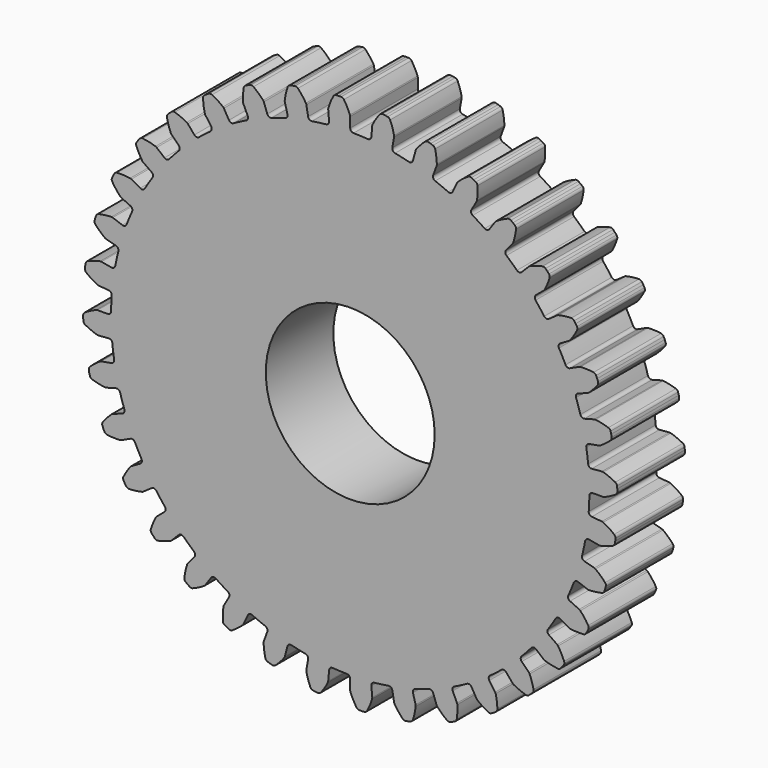
from build123d import *

# Parameters (mm, degrees)
F0_R     = 6.35
F1_DEPTH = 6.35


with BuildPart() as f1:
    # F0 (on Front) → F1 (new body)
    with BuildSketch(Plane.XZ):
        with BuildLine():
            ThreePointArc((-1.589323, 18.16604), (-1.646648, 17.981993), (-1.816696, 17.891202))
            ThreePointArc((-1.816696, 17.891202), (-2.347279, 17.829351), (-2.87579, 17.751769))
            ThreePointArc((-2.87579, 17.751769), (-3.063542, 17.795456), (-3.166549, 17.958394))
            Line((-3.166549, 17.958394), (-3.299689, 18.713467))
            ThreePointArc((-3.299689, 18.713467), (-3.312413, 18.759632), (-3.333576, 18.80259))
            ThreePointArc((-3.333576, 18.80259), (-3.613415, 19.208209), (-3.933669, 19.58274))
            ThreePointArc((-3.933669, 19.58274), (-4.038372, 19.649125), (-4.162025, 19.658043))
            Line((-4.162025, 19.658043), (-4.350707, 19.624773))
            Line((-4.350707, 19.624773), (-4.535773, 19.575185))
            ThreePointArc((-4.535773, 19.575185), (-4.644071, 19.514844), (-4.710909, 19.41043))
            ThreePointArc((-4.710909, 19.41043), (-4.842874, 18.935644), (-4.925072, 18.449764))
            ThreePointArc((-4.925072, 18.449764), (-4.926097, 18.401887), (-4.918119, 18.354669))
            Line((-4.918119, 18.354669), (-4.719677, 17.614074))
            ThreePointArc((-4.719677, 17.614074), (-4.744172, 17.422869), (-4.895871, 17.303928))
            ThreePointArc((-4.895871, 17.303928), (-5.407653, 17.150883), (-5.914662, 16.982704))
            ThreePointArc((-5.914662, 16.982704), (-6.107148, 16.993124), (-6.236885, 17.1357))
            Line((-6.236885, 17.1357), (-6.499119, 17.856182))
            ThreePointArc((-6.499119, 17.856182), (-6.519666, 17.899437), (-6.547967, 17.938067))
            ThreePointArc((-6.547967, 17.938067), (-6.893989, 18.28893), (-7.274415, 18.60216))
            ThreePointArc((-7.274415, 18.60216), (-7.389054, 18.649354), (-7.512377, 18.636665))
            Line((-7.512377, 18.636665), (-7.692417, 18.571136))
            Line((-7.692417, 18.571136), (-7.866059, 18.490165))
            ThreePointArc((-7.866059, 18.490165), (-7.962235, 18.411935), (-8.009925, 18.297501))
            ThreePointArc((-8.009925, 18.297501), (-8.05744, 17.807013), (-8.054017, 17.314241))
            ThreePointArc((-8.054017, 17.314241), (-8.046713, 17.266913), (-8.030656, 17.221798))
            Line((-8.030656, 17.221798), (-7.706626, 16.526913))
            ThreePointArc((-7.706626, 16.526913), (-7.697547, 16.334359), (-7.826288, 16.190883))
            ThreePointArc((-7.826288, 16.190883), (-8.303718, 15.951293), (-8.773821, 15.697629))
            ThreePointArc((-8.773821, 15.697629), (-8.965192, 15.674465), (-9.117716, 15.792347))
            Line((-9.117716, 15.792347), (-9.501076, 16.456346))
            ThreePointArc((-9.501076, 16.456346), (-9.528822, 16.495376), (-9.563401, 16.528505))
            ThreePointArc((-9.563401, 16.528505), (-9.965093, 16.813951), (-10.394131, 17.056362))
            ThreePointArc((-10.394131, 17.056362), (-10.515224, 17.082933), (-10.63447, 17.049022))
            Line((-10.63447, 17.049022), (-10.800395, 16.953225))
            Line((-10.800395, 16.953225), (-10.95734, 16.843331))
            ThreePointArc((-10.95734, 16.843331), (-11.038469, 16.749589), (-11.065564, 16.628612))
            ThreePointArc((-11.065564, 16.628612), (-11.027185, 16.137325), (-10.938244, 15.652633))
            ThreePointArc((-10.938244, 15.652633), (-10.922834, 15.607293), (-10.899187, 15.565652))
            Line((-10.899187, 15.565652), (-10.459414, 14.937591))
            ThreePointArc((-10.459414, 14.937591), (-10.417036, 14.749539), (-10.518906, 14.585887))
            ThreePointArc((-10.518906, 14.585887), (-10.947479, 14.267032), (-11.366392, 13.935588))
            ThreePointArc((-11.366392, 13.935588), (-11.550833, 13.879546), (-11.721509, 13.969151))
            Line((-11.721509, 13.969151), (-12.214348, 14.556493))
            ThreePointArc((-12.214348, 14.556493), (-12.24845, 14.590112), (-12.288257, 14.616732))
            ThreePointArc((-12.288257, 14.616732), (-12.733413, 14.828089), (-13.198027, 14.992316))
            ThreePointArc((-13.198027, 14.992316), (-13.321895, 14.997455), (-13.433441, 14.943352))
            Line((-13.433441, 14.943352), (-13.58021, 14.820198))
            Line((-13.58021, 14.820198), (-13.715687, 14.684721))
            ThreePointArc((-13.715687, 14.684721), (-13.779306, 14.578315), (-13.784982, 14.454471))
            ThreePointArc((-13.784982, 14.454471), (-13.661874, 13.977312), (-13.490119, 13.515428))
            ThreePointArc((-13.490119, 13.515428), (-13.467069, 13.473453), (-13.43655, 13.43655))
            Line((-13.43655, 13.43655), (-12.894397, 12.894397))
            ThreePointArc((-12.894397, 12.894397), (-12.820008, 12.716561), (-12.891913, 12.537706))
            ThreePointArc((-12.891913, 12.537706), (-13.258606, 12.149274), (-13.6136, 11.750122))
            ThreePointArc((-13.6136, 11.750122), (-13.785508, 11.662903), (-13.969151, 11.721509))
            Line((-13.969151, 11.721509), (-14.556493, 12.214348))
            ThreePointArc((-14.556493, 12.214348), (-14.595915, 12.241534), (-14.639739, 12.260838))
            ThreePointArc((-14.639739, 12.260838), (-15.114835, 12.391683), (-15.600908, 12.472735))
            ThreePointArc((-15.600908, 12.472735), (-15.723786, 12.456288), (-15.824242, 12.383637))
            Line((-15.824242, 12.383637), (-15.947396, 12.236868))
            Line((-15.947396, 12.236868), (-16.05729, 12.079923))
            ThreePointArc((-16.05729, 12.079923), (-16.101465, 11.964086), (-16.085549, 11.841138))
            ThreePointArc((-16.085549, 11.841138), (-15.881454, 11.392606), (-15.632103, 10.967564))
            ThreePointArc((-15.632103, 10.967564), (-15.602115, 10.930229), (-15.565652, 10.899187))
            Line((-15.565652, 10.899187), (-14.937591, 10.459414))
            ThreePointArc((-14.937591, 10.459414), (-14.833451, 10.297197), (-14.873206, 10.108573))
            ThreePointArc((-14.873206, 10.108573), (-15.166877, 9.662366), (-15.447166, 9.207635))
            ThreePointArc((-15.447166, 9.207635), (-15.601317, 9.091889), (-15.792347, 9.117716))
            Line((-15.792347, 9.117716), (-16.456346, 9.501076))
            ThreePointArc((-16.456346, 9.501076), (-16.49989, 9.521004), (-16.546401, 9.532404))
            ThreePointArc((-16.546401, 9.532404), (-17.037, 9.578762), (-17.529763, 9.574177))
            ThreePointArc((-17.529763, 9.574177), (-17.647918, 9.536642), (-17.734232, 9.447651))
            Line((-17.734232, 9.447651), (-17.830029, 9.281726))
            Line((-17.830029, 9.281726), (-17.911, 9.108083))
            ThreePointArc((-17.911, 9.108083), (-17.934389, 8.986335), (-17.897366, 8.868018))
            ThreePointArc((-17.897366, 8.868018), (-17.618484, 8.461741), (-17.299114, 8.086456))
            ThreePointArc((-17.299114, 8.086456), (-17.263098, 8.054896), (-17.221798, 8.030656))
            Line((-17.221798, 8.030656), (-16.526913, 7.706626))
            ThreePointArc((-16.526913, 7.706626), (-16.396187, 7.564957), (-16.402583, 7.372296))
            ThreePointArc((-16.402583, 7.372296), (-16.61431, 6.881873), (-16.811378, 6.385378))
            ThreePointArc((-16.811378, 6.385378), (-16.943088, 6.244623), (-17.1357, 6.236885))
            Line((-17.1357, 6.236885), (-17.856182, 6.499119))
            ThreePointArc((-17.856182, 6.499119), (-17.902525, 6.511182), (-17.950308, 6.514333))
            ThreePointArc((-17.950308, 6.514333), (-18.441504, 6.474796), (-18.925984, 6.384713))
            ThreePointArc((-18.925984, 6.384713), (-19.035827, 6.32723), (-19.105377, 6.224603))
            Line((-19.105377, 6.224603), (-19.170906, 6.044563))
            Line((-19.170906, 6.044563), (-19.220494, 5.859498))
            ThreePointArc((-19.220494, 5.859498), (-19.222386, 5.735538), (-19.16538, 5.625448))
            ThreePointArc((-19.16538, 5.625448), (-18.820186, 5.27377), (-18.4405, 4.959645))
            ThreePointArc((-18.4405, 4.959645), (-18.399551, 4.934818), (-18.354669, 4.918119))
            Line((-18.354669, 4.918119), (-17.614074, 4.719677))
            ThreePointArc((-17.614074, 4.719677), (-17.460733, 4.60286), (-17.433577, 4.412015))
            ThreePointArc((-17.433577, 4.412015), (-17.556926, 3.892277), (-17.664785, 3.369104))
            ThreePointArc((-17.664785, 3.369104), (-17.770051, 3.207616), (-17.958394, 3.166549))
            Line((-17.958394, 3.166549), (-18.713467, 3.299689))
            ThreePointArc((-18.713467, 3.299689), (-18.7612, 3.303522), (-18.808805, 3.298327))
            ThreePointArc((-18.808805, 3.298327), (-19.285673, 3.174095), (-19.74715, 3.001252))
            ThreePointArc((-19.74715, 3.001252), (-19.845342, 2.925568), (-19.896014, 2.812423))
            Line((-19.896014, 2.812423), (-19.929284, 2.62374))
            Line((-19.929284, 2.62374), (-19.945983, 2.432875))
            ThreePointArc((-19.945983, 2.432875), (-19.926321, 2.31047), (-19.851063, 2.211952))
            ThreePointArc((-19.851063, 2.211952), (-19.450045, 1.925559), (-19.02158, 1.682137))
            ThreePointArc((-19.02158, 1.682137), (-18.976942, 1.664799), (-18.929843, 1.656147))
            Line((-18.929843, 1.656147), (-18.16604, 1.589323))
            ThreePointArc((-18.16604, 1.589323), (-17.994744, 1.500908), (-17.93486, 1.317678))
            ThreePointArc((-17.93486, 1.317678), (-17.966084, 0.784416), (-17.981456, 0.250462))
            ThreePointArc((-17.981456, 0.250462), (-18.057081, 0.073148), (-18.235431, 0))
            Line((-18.235431, 0), (-19.002152, 0))
            ThreePointArc((-19.002152, 0), (-19.049826, -0.004514), (-19.095806, -0.017896))
            ThreePointArc((-19.095806, -0.017896), (-19.543856, -0.223048), (-19.968308, -0.4734))
            ThreePointArc((-19.968308, -0.4734), (-20.051866, -0.564985), (-20.082121, -0.685211))
            Line((-20.082121, -0.685211), (-20.082121, -0.876804))
            Line((-20.082121, -0.876804), (-20.065423, -1.067669))
            ThreePointArc((-20.065423, -1.067669), (-20.024804, -1.1848), (-19.933582, -1.268754))
            ThreePointArc((-19.933582, -1.268754), (-19.488925, -1.48116), (-19.0247, -1.646481))
            ThreePointArc((-19.0247, -1.646481), (-18.977729, -1.655805), (-18.929843, -1.656147))
            Line((-18.929843, -1.656147), (-18.16604, -1.589323))
            ThreePointArc((-18.16604, -1.589323), (-17.981993, -1.646648), (-17.891202, -1.816696))
            ThreePointArc((-17.891202, -1.816696), (-17.829351, -2.347279), (-17.751769, -2.87579))
            ThreePointArc((-17.751769, -2.87579), (-17.795456, -3.063542), (-17.958394, -3.166549))
            Line((-17.958394, -3.166549), (-18.713467, -3.299689))
            ThreePointArc((-18.713467, -3.299689), (-18.759632, -3.312413), (-18.80259, -3.333576))
            ThreePointArc((-18.80259, -3.333576), (-19.208209, -3.613415), (-19.58274, -3.933669))
            ThreePointArc((-19.58274, -3.933669), (-19.649125, -4.038372), (-19.658043, -4.162025))
            Line((-19.658043, -4.162025), (-19.624773, -4.350707))
            Line((-19.624773, -4.350707), (-19.575185, -4.535773))
            ThreePointArc((-19.575185, -4.535773), (-19.514844, -4.644071), (-19.41043, -4.710909))
            ThreePointArc((-19.41043, -4.710909), (-18.935644, -4.842874), (-18.449764, -4.925072))
            ThreePointArc((-18.449764, -4.925072), (-18.401887, -4.926097), (-18.354669, -4.918119))
            Line((-18.354669, -4.918119), (-17.614074, -4.719677))
            ThreePointArc((-17.614074, -4.719677), (-17.422869, -4.744172), (-17.303928, -4.895871))
            ThreePointArc((-17.303928, -4.895871), (-17.150883, -5.407653), (-16.982704, -5.914662))
            ThreePointArc((-16.982704, -5.914662), (-16.993124, -6.107148), (-17.1357, -6.236885))
            Line((-17.1357, -6.236885), (-17.856182, -6.499119))
            ThreePointArc((-17.856182, -6.499119), (-17.899437, -6.519666), (-17.938067, -6.547967))
            ThreePointArc((-17.938067, -6.547967), (-18.28893, -6.893989), (-18.60216, -7.274415))
            ThreePointArc((-18.60216, -7.274415), (-18.649354, -7.389054), (-18.636665, -7.512377))
            Line((-18.636665, -7.512377), (-18.571136, -7.692417))
            Line((-18.571136, -7.692417), (-18.490165, -7.866059))
            ThreePointArc((-18.490165, -7.866059), (-18.411935, -7.962235), (-18.297501, -8.009925))
            ThreePointArc((-18.297501, -8.009925), (-17.807013, -8.05744), (-17.314241, -8.054017))
            ThreePointArc((-17.314241, -8.054017), (-17.266913, -8.046713), (-17.221798, -8.030656))
            Line((-17.221798, -8.030656), (-16.526913, -7.706626))
            ThreePointArc((-16.526913, -7.706626), (-16.334359, -7.697547), (-16.190883, -7.826288))
            ThreePointArc((-16.190883, -7.826288), (-15.951293, -8.303718), (-15.697629, -8.773821))
            ThreePointArc((-15.697629, -8.773821), (-15.674465, -8.965192), (-15.792347, -9.117716))
            Line((-15.792347, -9.117716), (-16.456346, -9.501076))
            ThreePointArc((-16.456346, -9.501076), (-16.495376, -9.528822), (-16.528505, -9.563401))
            ThreePointArc((-16.528505, -9.563401), (-16.813951, -9.965093), (-17.056362, -10.394131))
            ThreePointArc((-17.056362, -10.394131), (-17.082933, -10.515224), (-17.049022, -10.63447))
            Line((-17.049022, -10.63447), (-16.953225, -10.800395))
            Line((-16.953225, -10.800395), (-16.843331, -10.95734))
            ThreePointArc((-16.843331, -10.95734), (-16.749589, -11.038469), (-16.628612, -11.065564))
            ThreePointArc((-16.628612, -11.065564), (-16.137325, -11.027185), (-15.652633, -10.938244))
            ThreePointArc((-15.652633, -10.938244), (-15.607293, -10.922834), (-15.565652, -10.899187))
            Line((-15.565652, -10.899187), (-14.937591, -10.459414))
            ThreePointArc((-14.937591, -10.459414), (-14.749539, -10.417036), (-14.585887, -10.518906))
            ThreePointArc((-14.585887, -10.518906), (-14.267032, -10.947479), (-13.935588, -11.366392))
            ThreePointArc((-13.935588, -11.366392), (-13.879546, -11.550833), (-13.969151, -11.721509))
            Line((-13.969151, -11.721509), (-14.556493, -12.214348))
            ThreePointArc((-14.556493, -12.214348), (-14.590112, -12.24845), (-14.616732, -12.288257))
            ThreePointArc((-14.616732, -12.288257), (-14.828089, -12.733413), (-14.992316, -13.198027))
            ThreePointArc((-14.992316, -13.198027), (-14.997455, -13.321895), (-14.943352, -13.433441))
            Line((-14.943352, -13.433441), (-14.820198, -13.58021))
            Line((-14.820198, -13.58021), (-14.684721, -13.715687))
            ThreePointArc((-14.684721, -13.715687), (-14.578315, -13.779306), (-14.454471, -13.784982))
            ThreePointArc((-14.454471, -13.784982), (-13.977312, -13.661874), (-13.515428, -13.490119))
            ThreePointArc((-13.515428, -13.490119), (-13.473453, -13.467069), (-13.43655, -13.43655))
            Line((-13.43655, -13.43655), (-12.894397, -12.894397))
            ThreePointArc((-12.894397, -12.894397), (-12.716561, -12.820008), (-12.537706, -12.891913))
            ThreePointArc((-12.537706, -12.891913), (-12.149274, -13.258606), (-11.750122, -13.6136))
            ThreePointArc((-11.750122, -13.6136), (-11.662903, -13.785508), (-11.721509, -13.969151))
            Line((-11.721509, -13.969151), (-12.214348, -14.556493))
            ThreePointArc((-12.214348, -14.556493), (-12.241534, -14.595915), (-12.260838, -14.639739))
            ThreePointArc((-12.260838, -14.639739), (-12.391683, -15.114835), (-12.472735, -15.600908))
            ThreePointArc((-12.472735, -15.600908), (-12.456288, -15.723786), (-12.383637, -15.824242))
            Line((-12.383637, -15.824242), (-12.236868, -15.947396))
            Line((-12.236868, -15.947396), (-12.079923, -16.05729))
            ThreePointArc((-12.079923, -16.05729), (-11.964086, -16.101465), (-11.841138, -16.085549))
            ThreePointArc((-11.841138, -16.085549), (-11.392606, -15.881454), (-10.967564, -15.632103))
            ThreePointArc((-10.967564, -15.632103), (-10.930229, -15.602115), (-10.899187, -15.565652))
            Line((-10.899187, -15.565652), (-10.459414, -14.937591))
            ThreePointArc((-10.459414, -14.937591), (-10.297197, -14.833451), (-10.108573, -14.873206))
            ThreePointArc((-10.108573, -14.873206), (-9.662366, -15.166877), (-9.207635, -15.447166))
            ThreePointArc((-9.207635, -15.447166), (-9.091889, -15.601317), (-9.117716, -15.792347))
            Line((-9.117716, -15.792347), (-9.501076, -16.456346))
            ThreePointArc((-9.501076, -16.456346), (-9.521004, -16.49989), (-9.532404, -16.546401))
            ThreePointArc((-9.532404, -16.546401), (-9.578762, -17.037), (-9.574177, -17.529763))
            ThreePointArc((-9.574177, -17.529763), (-9.536642, -17.647918), (-9.447651, -17.734232))
            Line((-9.447651, -17.734232), (-9.281726, -17.830029))
            Line((-9.281726, -17.830029), (-9.108083, -17.911))
            ThreePointArc((-9.108083, -17.911), (-8.986335, -17.934389), (-8.868018, -17.897366))
            ThreePointArc((-8.868018, -17.897366), (-8.461741, -17.618484), (-8.086456, -17.299114))
            ThreePointArc((-8.086456, -17.299114), (-8.054896, -17.263098), (-8.030656, -17.221798))
            Line((-8.030656, -17.221798), (-7.706626, -16.526913))
            ThreePointArc((-7.706626, -16.526913), (-7.564957, -16.396187), (-7.372296, -16.402583))
            ThreePointArc((-7.372296, -16.402583), (-6.881873, -16.61431), (-6.385378, -16.811378))
            ThreePointArc((-6.385378, -16.811378), (-6.244623, -16.943088), (-6.236885, -17.1357))
            Line((-6.236885, -17.1357), (-6.499119, -17.856182))
            ThreePointArc((-6.499119, -17.856182), (-6.511182, -17.902525), (-6.514333, -17.950308))
            ThreePointArc((-6.514333, -17.950308), (-6.474796, -18.441504), (-6.384713, -18.925984))
            ThreePointArc((-6.384713, -18.925984), (-6.32723, -19.035827), (-6.224603, -19.105377))
            Line((-6.224603, -19.105377), (-6.044563, -19.170906))
            Line((-6.044563, -19.170906), (-5.859498, -19.220494))
            ThreePointArc((-5.859498, -19.220494), (-5.735538, -19.222386), (-5.625448, -19.16538))
            ThreePointArc((-5.625448, -19.16538), (-5.27377, -18.820186), (-4.959645, -18.4405))
            ThreePointArc((-4.959645, -18.4405), (-4.934818, -18.399551), (-4.918119, -18.354669))
            Line((-4.918119, -18.354669), (-4.719677, -17.614074))
            ThreePointArc((-4.719677, -17.614074), (-4.60286, -17.460733), (-4.412015, -17.433577))
            ThreePointArc((-4.412015, -17.433577), (-3.892277, -17.556926), (-3.369104, -17.664785))
            ThreePointArc((-3.369104, -17.664785), (-3.207616, -17.770051), (-3.166549, -17.958394))
            Line((-3.166549, -17.958394), (-3.299689, -18.713467))
            ThreePointArc((-3.299689, -18.713467), (-3.303522, -18.7612), (-3.298327, -18.808805))
            ThreePointArc((-3.298327, -18.808805), (-3.174095, -19.285673), (-3.001252, -19.74715))
            ThreePointArc((-3.001252, -19.74715), (-2.925568, -19.845342), (-2.812423, -19.896014))
            Line((-2.812423, -19.896014), (-2.62374, -19.929284))
            Line((-2.62374, -19.929284), (-2.432875, -19.945983))
            ThreePointArc((-2.432875, -19.945983), (-2.31047, -19.926321), (-2.211952, -19.851063))
            ThreePointArc((-2.211952, -19.851063), (-1.925559, -19.450045), (-1.682137, -19.02158))
            ThreePointArc((-1.682137, -19.02158), (-1.664799, -18.976942), (-1.656147, -18.929843))
            Line((-1.656147, -18.929843), (-1.589323, -18.16604))
            ThreePointArc((-1.589323, -18.16604), (-1.500908, -17.994744), (-1.317678, -17.93486))
            ThreePointArc((-1.317678, -17.93486), (-0.784416, -17.966084), (-0.250462, -17.981456))
            ThreePointArc((-0.250462, -17.981456), (-0.073148, -18.057081), (0, -18.235431))
            Line((0, -18.235431), (0, -19.002152))
            ThreePointArc((0, -19.002152), (0.004514, -19.049826), (0.017896, -19.095806))
            ThreePointArc((0.017896, -19.095806), (0.223048, -19.543856), (0.4734, -19.968308))
            ThreePointArc((0.4734, -19.968308), (0.564985, -20.051866), (0.685211, -20.082121))
            Line((0.685211, -20.082121), (0.876804, -20.082121))
            Line((0.876804, -20.082121), (1.067669, -20.065423))
            ThreePointArc((1.067669, -20.065423), (1.1848, -20.024804), (1.268754, -19.933582))
            ThreePointArc((1.268754, -19.933582), (1.48116, -19.488925), (1.646481, -19.0247))
            ThreePointArc((1.646481, -19.0247), (1.655805, -18.977729), (1.656147, -18.929843))
            Line((1.656147, -18.929843), (1.589323, -18.16604))
            ThreePointArc((1.589323, -18.16604), (1.646648, -17.981993), (1.816696, -17.891202))
            ThreePointArc((1.816696, -17.891202), (2.347279, -17.829351), (2.87579, -17.751769))
            ThreePointArc((2.87579, -17.751769), (3.063542, -17.795456), (3.166549, -17.958394))
            Line((3.166549, -17.958394), (3.299689, -18.713467))
            ThreePointArc((3.299689, -18.713467), (3.312413, -18.759632), (3.333576, -18.80259))
            ThreePointArc((3.333576, -18.80259), (3.613415, -19.208209), (3.933669, -19.58274))
            ThreePointArc((3.933669, -19.58274), (4.038372, -19.649125), (4.162025, -19.658043))
            Line((4.162025, -19.658043), (4.350707, -19.624773))
            Line((4.350707, -19.624773), (4.535773, -19.575185))
            ThreePointArc((4.535773, -19.575185), (4.644071, -19.514844), (4.710909, -19.41043))
            ThreePointArc((4.710909, -19.41043), (4.842874, -18.935644), (4.925072, -18.449764))
            ThreePointArc((4.925072, -18.449764), (4.926097, -18.401887), (4.918119, -18.354669))
            Line((4.918119, -18.354669), (4.719677, -17.614074))
            ThreePointArc((4.719677, -17.614074), (4.744172, -17.422869), (4.895871, -17.303928))
            ThreePointArc((4.895871, -17.303928), (5.407653, -17.150883), (5.914662, -16.982704))
            ThreePointArc((5.914662, -16.982704), (6.107148, -16.993124), (6.236885, -17.1357))
            Line((6.236885, -17.1357), (6.499119, -17.856182))
            ThreePointArc((6.499119, -17.856182), (6.519666, -17.899437), (6.547967, -17.938067))
            ThreePointArc((6.547967, -17.938067), (6.893989, -18.28893), (7.274415, -18.60216))
            ThreePointArc((7.274415, -18.60216), (7.389054, -18.649354), (7.512377, -18.636665))
            Line((7.512377, -18.636665), (7.692417, -18.571136))
            Line((7.692417, -18.571136), (7.866059, -18.490165))
            ThreePointArc((7.866059, -18.490165), (7.962235, -18.411935), (8.009925, -18.297501))
            ThreePointArc((8.009925, -18.297501), (8.05744, -17.807013), (8.054017, -17.314241))
            ThreePointArc((8.054017, -17.314241), (8.046713, -17.266913), (8.030656, -17.221798))
            Line((8.030656, -17.221798), (7.706626, -16.526913))
            ThreePointArc((7.706626, -16.526913), (7.697547, -16.334359), (7.826288, -16.190883))
            ThreePointArc((7.826288, -16.190883), (8.303718, -15.951293), (8.773821, -15.697629))
            ThreePointArc((8.773821, -15.697629), (8.965192, -15.674465), (9.117716, -15.792347))
            Line((9.117716, -15.792347), (9.501076, -16.456346))
            ThreePointArc((9.501076, -16.456346), (9.528822, -16.495376), (9.563401, -16.528505))
            ThreePointArc((9.563401, -16.528505), (9.965093, -16.813951), (10.394131, -17.056362))
            ThreePointArc((10.394131, -17.056362), (10.515224, -17.082933), (10.63447, -17.049022))
            Line((10.63447, -17.049022), (10.800395, -16.953225))
            Line((10.800395, -16.953225), (10.95734, -16.843331))
            ThreePointArc((10.95734, -16.843331), (11.038469, -16.749589), (11.065564, -16.628612))
            ThreePointArc((11.065564, -16.628612), (11.027185, -16.137325), (10.938244, -15.652633))
            ThreePointArc((10.938244, -15.652633), (10.922834, -15.607293), (10.899187, -15.565652))
            Line((10.899187, -15.565652), (10.459414, -14.937591))
            ThreePointArc((10.459414, -14.937591), (10.417036, -14.749539), (10.518906, -14.585887))
            ThreePointArc((10.518906, -14.585887), (10.947479, -14.267032), (11.366392, -13.935588))
            ThreePointArc((11.366392, -13.935588), (11.550833, -13.879546), (11.721509, -13.969151))
            Line((11.721509, -13.969151), (12.214348, -14.556493))
            ThreePointArc((12.214348, -14.556493), (12.24845, -14.590112), (12.288257, -14.616732))
            ThreePointArc((12.288257, -14.616732), (12.733413, -14.828089), (13.198027, -14.992316))
            ThreePointArc((13.198027, -14.992316), (13.321895, -14.997455), (13.433441, -14.943352))
            Line((13.433441, -14.943352), (13.58021, -14.820198))
            Line((13.58021, -14.820198), (13.715687, -14.684721))
            ThreePointArc((13.715687, -14.684721), (13.779306, -14.578315), (13.784982, -14.454471))
            ThreePointArc((13.784982, -14.454471), (13.661874, -13.977312), (13.490119, -13.515428))
            ThreePointArc((13.490119, -13.515428), (13.467069, -13.473453), (13.43655, -13.43655))
            Line((13.43655, -13.43655), (12.894397, -12.894397))
            ThreePointArc((12.894397, -12.894397), (12.820008, -12.716561), (12.891913, -12.537706))
            ThreePointArc((12.891913, -12.537706), (13.258606, -12.149274), (13.6136, -11.750122))
            ThreePointArc((13.6136, -11.750122), (13.785508, -11.662903), (13.969151, -11.721509))
            Line((13.969151, -11.721509), (14.556493, -12.214348))
            ThreePointArc((14.556493, -12.214348), (14.595915, -12.241534), (14.639739, -12.260838))
            ThreePointArc((14.639739, -12.260838), (15.114835, -12.391683), (15.600908, -12.472735))
            ThreePointArc((15.600908, -12.472735), (15.723786, -12.456288), (15.824242, -12.383637))
            Line((15.824242, -12.383637), (15.947396, -12.236868))
            Line((15.947396, -12.236868), (16.05729, -12.079923))
            ThreePointArc((16.05729, -12.079923), (16.101465, -11.964086), (16.085549, -11.841138))
            ThreePointArc((16.085549, -11.841138), (15.881454, -11.392606), (15.632103, -10.967564))
            ThreePointArc((15.632103, -10.967564), (15.602115, -10.930229), (15.565652, -10.899187))
            Line((15.565652, -10.899187), (14.937591, -10.459414))
            ThreePointArc((14.937591, -10.459414), (14.833451, -10.297197), (14.873206, -10.108573))
            ThreePointArc((14.873206, -10.108573), (15.166877, -9.662366), (15.447166, -9.207635))
            ThreePointArc((15.447166, -9.207635), (15.601317, -9.091889), (15.792347, -9.117716))
            Line((15.792347, -9.117716), (16.456346, -9.501076))
            ThreePointArc((16.456346, -9.501076), (16.49989, -9.521004), (16.546401, -9.532404))
            ThreePointArc((16.546401, -9.532404), (17.037, -9.578762), (17.529763, -9.574177))
            ThreePointArc((17.529763, -9.574177), (17.647918, -9.536642), (17.734232, -9.447651))
            Line((17.734232, -9.447651), (17.830029, -9.281726))
            Line((17.830029, -9.281726), (17.911, -9.108083))
            ThreePointArc((17.911, -9.108083), (17.934389, -8.986335), (17.897366, -8.868018))
            ThreePointArc((17.897366, -8.868018), (17.618484, -8.461741), (17.299114, -8.086456))
            ThreePointArc((17.299114, -8.086456), (17.263098, -8.054896), (17.221798, -8.030656))
            Line((17.221798, -8.030656), (16.526913, -7.706626))
            ThreePointArc((16.526913, -7.706626), (16.396187, -7.564957), (16.402583, -7.372296))
            ThreePointArc((16.402583, -7.372296), (16.61431, -6.881873), (16.811378, -6.385378))
            ThreePointArc((16.811378, -6.385378), (16.943088, -6.244623), (17.1357, -6.236885))
            Line((17.1357, -6.236885), (17.856182, -6.499119))
            ThreePointArc((17.856182, -6.499119), (17.902525, -6.511182), (17.950308, -6.514333))
            ThreePointArc((17.950308, -6.514333), (18.441504, -6.474796), (18.925984, -6.384713))
            ThreePointArc((18.925984, -6.384713), (19.035827, -6.32723), (19.105377, -6.224603))
            Line((19.105377, -6.224603), (19.170906, -6.044563))
            Line((19.170906, -6.044563), (19.220494, -5.859498))
            ThreePointArc((19.220494, -5.859498), (19.222386, -5.735538), (19.16538, -5.625448))
            ThreePointArc((19.16538, -5.625448), (18.820186, -5.27377), (18.4405, -4.959645))
            ThreePointArc((18.4405, -4.959645), (18.399551, -4.934818), (18.354669, -4.918119))
            Line((18.354669, -4.918119), (17.614074, -4.719677))
            ThreePointArc((17.614074, -4.719677), (17.460733, -4.60286), (17.433577, -4.412015))
            ThreePointArc((17.433577, -4.412015), (17.556926, -3.892277), (17.664785, -3.369104))
            ThreePointArc((17.664785, -3.369104), (17.770051, -3.207616), (17.958394, -3.166549))
            Line((17.958394, -3.166549), (18.713467, -3.299689))
            ThreePointArc((18.713467, -3.299689), (18.7612, -3.303522), (18.808805, -3.298327))
            ThreePointArc((18.808805, -3.298327), (19.285673, -3.174095), (19.74715, -3.001252))
            ThreePointArc((19.74715, -3.001252), (19.845342, -2.925568), (19.896014, -2.812423))
            Line((19.896014, -2.812423), (19.929284, -2.62374))
            Line((19.929284, -2.62374), (19.945983, -2.432875))
            ThreePointArc((19.945983, -2.432875), (19.926321, -2.31047), (19.851063, -2.211952))
            ThreePointArc((19.851063, -2.211952), (19.450045, -1.925559), (19.02158, -1.682137))
            ThreePointArc((19.02158, -1.682137), (18.976942, -1.664799), (18.929843, -1.656147))
            Line((18.929843, -1.656147), (18.16604, -1.589323))
            ThreePointArc((18.16604, -1.589323), (17.994744, -1.500908), (17.93486, -1.317678))
            ThreePointArc((17.93486, -1.317678), (17.966084, -0.784416), (17.981456, -0.250462))
            ThreePointArc((17.981456, -0.250462), (18.057081, -0.073148), (18.235431, 0))
            Line((18.235431, 0), (19.002152, 0))
            ThreePointArc((19.002152, 0), (19.049826, 0.004514), (19.095806, 0.017896))
            ThreePointArc((19.095806, 0.017896), (19.543856, 0.223048), (19.968308, 0.4734))
            ThreePointArc((19.968308, 0.4734), (20.051866, 0.564985), (20.082121, 0.685211))
            Line((20.082121, 0.685211), (20.082121, 0.876804))
            Line((20.082121, 0.876804), (20.065423, 1.067669))
            ThreePointArc((20.065423, 1.067669), (20.024804, 1.1848), (19.933582, 1.268754))
            ThreePointArc((19.933582, 1.268754), (19.488925, 1.48116), (19.0247, 1.646481))
            ThreePointArc((19.0247, 1.646481), (18.977729, 1.655805), (18.929843, 1.656147))
            Line((18.929843, 1.656147), (18.16604, 1.589323))
            ThreePointArc((18.16604, 1.589323), (17.981993, 1.646648), (17.891202, 1.816696))
            ThreePointArc((17.891202, 1.816696), (17.829351, 2.347279), (17.751769, 2.87579))
            ThreePointArc((17.751769, 2.87579), (17.795456, 3.063542), (17.958394, 3.166549))
            Line((17.958394, 3.166549), (18.713467, 3.299689))
            ThreePointArc((18.713467, 3.299689), (18.759632, 3.312413), (18.80259, 3.333576))
            ThreePointArc((18.80259, 3.333576), (19.208209, 3.613415), (19.58274, 3.933669))
            ThreePointArc((19.58274, 3.933669), (19.649125, 4.038372), (19.658043, 4.162025))
            Line((19.658043, 4.162025), (19.624773, 4.350707))
            Line((19.624773, 4.350707), (19.575185, 4.535773))
            ThreePointArc((19.575185, 4.535773), (19.514844, 4.644071), (19.41043, 4.710909))
            ThreePointArc((19.41043, 4.710909), (18.935644, 4.842874), (18.449764, 4.925072))
            ThreePointArc((18.449764, 4.925072), (18.401887, 4.926097), (18.354669, 4.918119))
            Line((18.354669, 4.918119), (17.614074, 4.719677))
            ThreePointArc((17.614074, 4.719677), (17.422869, 4.744172), (17.303928, 4.895871))
            ThreePointArc((17.303928, 4.895871), (17.150883, 5.407653), (16.982704, 5.914662))
            ThreePointArc((16.982704, 5.914662), (16.993124, 6.107148), (17.1357, 6.236885))
            Line((17.1357, 6.236885), (17.856182, 6.499119))
            ThreePointArc((17.856182, 6.499119), (17.899437, 6.519666), (17.938067, 6.547967))
            ThreePointArc((17.938067, 6.547967), (18.28893, 6.893989), (18.60216, 7.274415))
            ThreePointArc((18.60216, 7.274415), (18.649354, 7.389054), (18.636665, 7.512377))
            Line((18.636665, 7.512377), (18.571136, 7.692417))
            Line((18.571136, 7.692417), (18.490165, 7.866059))
            ThreePointArc((18.490165, 7.866059), (18.411935, 7.962235), (18.297501, 8.009925))
            ThreePointArc((18.297501, 8.009925), (17.807013, 8.05744), (17.314241, 8.054017))
            ThreePointArc((17.314241, 8.054017), (17.266913, 8.046713), (17.221798, 8.030656))
            Line((17.221798, 8.030656), (16.526913, 7.706626))
            ThreePointArc((16.526913, 7.706626), (16.334359, 7.697547), (16.190883, 7.826288))
            ThreePointArc((16.190883, 7.826288), (15.951293, 8.303718), (15.697629, 8.773821))
            ThreePointArc((15.697629, 8.773821), (15.674465, 8.965192), (15.792347, 9.117716))
            Line((15.792347, 9.117716), (16.456346, 9.501076))
            ThreePointArc((16.456346, 9.501076), (16.495376, 9.528822), (16.528505, 9.563401))
            ThreePointArc((16.528505, 9.563401), (16.813951, 9.965093), (17.056362, 10.394131))
            ThreePointArc((17.056362, 10.394131), (17.082933, 10.515224), (17.049022, 10.63447))
            Line((17.049022, 10.63447), (16.953225, 10.800395))
            Line((16.953225, 10.800395), (16.843331, 10.95734))
            ThreePointArc((16.843331, 10.95734), (16.749589, 11.038469), (16.628612, 11.065564))
            ThreePointArc((16.628612, 11.065564), (16.137325, 11.027185), (15.652633, 10.938244))
            ThreePointArc((15.652633, 10.938244), (15.607293, 10.922834), (15.565652, 10.899187))
            Line((15.565652, 10.899187), (14.937591, 10.459414))
            ThreePointArc((14.937591, 10.459414), (14.749539, 10.417036), (14.585887, 10.518906))
            ThreePointArc((14.585887, 10.518906), (14.267032, 10.947479), (13.935588, 11.366392))
            ThreePointArc((13.935588, 11.366392), (13.879546, 11.550833), (13.969151, 11.721509))
            Line((13.969151, 11.721509), (14.556493, 12.214348))
            ThreePointArc((14.556493, 12.214348), (14.590112, 12.24845), (14.616732, 12.288257))
            ThreePointArc((14.616732, 12.288257), (14.828089, 12.733413), (14.992316, 13.198027))
            ThreePointArc((14.992316, 13.198027), (14.997455, 13.321895), (14.943352, 13.433441))
            Line((14.943352, 13.433441), (14.820198, 13.58021))
            Line((14.820198, 13.58021), (14.684721, 13.715687))
            ThreePointArc((14.684721, 13.715687), (14.578315, 13.779306), (14.454471, 13.784982))
            ThreePointArc((14.454471, 13.784982), (13.977312, 13.661874), (13.515428, 13.490119))
            ThreePointArc((13.515428, 13.490119), (13.473453, 13.467069), (13.43655, 13.43655))
            Line((13.43655, 13.43655), (12.894397, 12.894397))
            ThreePointArc((12.894397, 12.894397), (12.716561, 12.820008), (12.537706, 12.891913))
            ThreePointArc((12.537706, 12.891913), (12.149274, 13.258606), (11.750122, 13.6136))
            ThreePointArc((11.750122, 13.6136), (11.662903, 13.785508), (11.721509, 13.969151))
            Line((11.721509, 13.969151), (12.214348, 14.556493))
            ThreePointArc((12.214348, 14.556493), (12.241534, 14.595915), (12.260838, 14.639739))
            ThreePointArc((12.260838, 14.639739), (12.391683, 15.114835), (12.472735, 15.600908))
            ThreePointArc((12.472735, 15.600908), (12.456288, 15.723786), (12.383637, 15.824242))
            Line((12.383637, 15.824242), (12.236868, 15.947396))
            Line((12.236868, 15.947396), (12.079923, 16.05729))
            ThreePointArc((12.079923, 16.05729), (11.964086, 16.101465), (11.841138, 16.085549))
            ThreePointArc((11.841138, 16.085549), (11.392606, 15.881454), (10.967564, 15.632103))
            ThreePointArc((10.967564, 15.632103), (10.930229, 15.602115), (10.899187, 15.565652))
            Line((10.899187, 15.565652), (10.459414, 14.937591))
            ThreePointArc((10.459414, 14.937591), (10.297197, 14.833451), (10.108573, 14.873206))
            ThreePointArc((10.108573, 14.873206), (9.662366, 15.166877), (9.207635, 15.447166))
            ThreePointArc((9.207635, 15.447166), (9.091889, 15.601317), (9.117716, 15.792347))
            Line((9.117716, 15.792347), (9.501076, 16.456346))
            ThreePointArc((9.501076, 16.456346), (9.521004, 16.49989), (9.532404, 16.546401))
            ThreePointArc((9.532404, 16.546401), (9.578762, 17.037), (9.574177, 17.529763))
            ThreePointArc((9.574177, 17.529763), (9.536642, 17.647918), (9.447651, 17.734232))
            Line((9.447651, 17.734232), (9.281726, 17.830029))
            Line((9.281726, 17.830029), (9.108083, 17.911))
            ThreePointArc((9.108083, 17.911), (8.986335, 17.934389), (8.868018, 17.897366))
            ThreePointArc((8.868018, 17.897366), (8.461741, 17.618484), (8.086456, 17.299114))
            ThreePointArc((8.086456, 17.299114), (8.054896, 17.263098), (8.030656, 17.221798))
            Line((8.030656, 17.221798), (7.706626, 16.526913))
            ThreePointArc((7.706626, 16.526913), (7.564957, 16.396187), (7.372296, 16.402583))
            ThreePointArc((7.372296, 16.402583), (6.881873, 16.61431), (6.385378, 16.811378))
            ThreePointArc((6.385378, 16.811378), (6.244623, 16.943088), (6.236885, 17.1357))
            Line((6.236885, 17.1357), (6.499119, 17.856182))
            ThreePointArc((6.499119, 17.856182), (6.511182, 17.902525), (6.514333, 17.950308))
            ThreePointArc((6.514333, 17.950308), (6.474796, 18.441504), (6.384713, 18.925984))
            ThreePointArc((6.384713, 18.925984), (6.32723, 19.035827), (6.224603, 19.105377))
            Line((6.224603, 19.105377), (6.044563, 19.170906))
            Line((6.044563, 19.170906), (5.859498, 19.220494))
            ThreePointArc((5.859498, 19.220494), (5.735538, 19.222386), (5.625448, 19.16538))
            ThreePointArc((5.625448, 19.16538), (5.27377, 18.820186), (4.959645, 18.4405))
            ThreePointArc((4.959645, 18.4405), (4.934818, 18.399551), (4.918119, 18.354669))
            Line((4.918119, 18.354669), (4.719677, 17.614074))
            ThreePointArc((4.719677, 17.614074), (4.60286, 17.460733), (4.412015, 17.433577))
            ThreePointArc((4.412015, 17.433577), (3.892277, 17.556926), (3.369104, 17.664785))
            ThreePointArc((3.369104, 17.664785), (3.207616, 17.770051), (3.166549, 17.958394))
            Line((3.166549, 17.958394), (3.299689, 18.713467))
            ThreePointArc((3.299689, 18.713467), (3.303522, 18.7612), (3.298327, 18.808805))
            ThreePointArc((3.298327, 18.808805), (3.174095, 19.285673), (3.001252, 19.74715))
            ThreePointArc((3.001252, 19.74715), (2.925568, 19.845342), (2.812423, 19.896014))
            Line((2.812423, 19.896014), (2.62374, 19.929284))
            Line((2.62374, 19.929284), (2.432875, 19.945983))
            ThreePointArc((2.432875, 19.945983), (2.31047, 19.926321), (2.211952, 19.851063))
            ThreePointArc((2.211952, 19.851063), (1.925559, 19.450045), (1.682137, 19.02158))
            ThreePointArc((1.682137, 19.02158), (1.664799, 18.976942), (1.656147, 18.929843))
            Line((1.656147, 18.929843), (1.589323, 18.16604))
            ThreePointArc((1.589323, 18.16604), (1.500908, 17.994744), (1.317678, 17.93486))
            ThreePointArc((1.317678, 17.93486), (0.784416, 17.966084), (0.250462, 17.981456))
            ThreePointArc((0.250462, 17.981456), (0.073148, 18.057081), (0, 18.235431))
            Line((0, 18.235431), (0, 19.002152))
            ThreePointArc((0, 19.002152), (-0.004514, 19.049826), (-0.017896, 19.095806))
            ThreePointArc((-0.017896, 19.095806), (-0.223048, 19.543856), (-0.4734, 19.968308))
            ThreePointArc((-0.4734, 19.968308), (-0.564985, 20.051866), (-0.685211, 20.082121))
            Line((-0.685211, 20.082121), (-0.876804, 20.082121))
            Line((-0.876804, 20.082121), (-1.067669, 20.065423))
            ThreePointArc((-1.067669, 20.065423), (-1.1848, 20.024804), (-1.268754, 19.933582))
            ThreePointArc((-1.268754, 19.933582), (-1.48116, 19.488925), (-1.646481, 19.0247))
            ThreePointArc((-1.646481, 19.0247), (-1.655805, 18.977729), (-1.656147, 18.929843))
            Line((-1.656147, 18.929843), (-1.589323, 18.16604))
        make_face()
        Circle(F0_R, mode=Mode.SUBTRACT)
    extrude(amount=F1_DEPTH)


solid = f1.part
